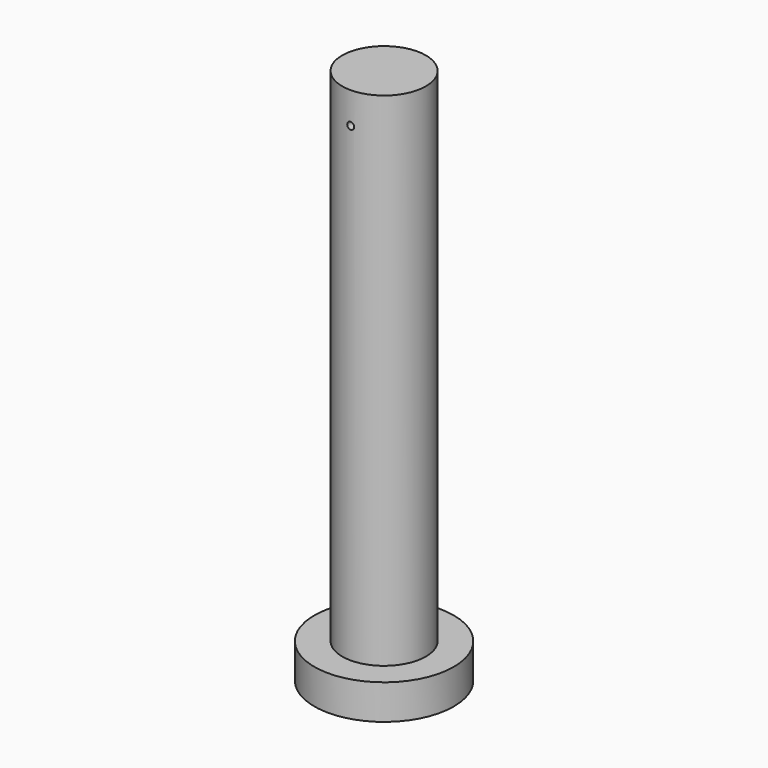
from build123d import *

# Parameters (mm, degrees)
F2_R     = 0.25
F3_DEPTH = 12.7


with BuildPart() as f1:
    # F0 (on Front) → F1 (revolve)
    with BuildSketch(Plane.XZ):
        Polygon((0, 33.142675), (0, -5.357325), (5, -5.357325), (5, -2.857325), (3, -2.857325), (3, 33.142675), align=None)
    revolve(axis=Axis((0, 0, 13.892675), (0, 0, -1)))

    # F2 (on Front) → F3 (cut, symmetric)
    with BuildSketch(Plane.XZ):
        with Locations((0, 30.892675)):
            Circle(F2_R)
    extrude(amount=F3_DEPTH, both=True, mode=Mode.SUBTRACT)


solid = f1.part
